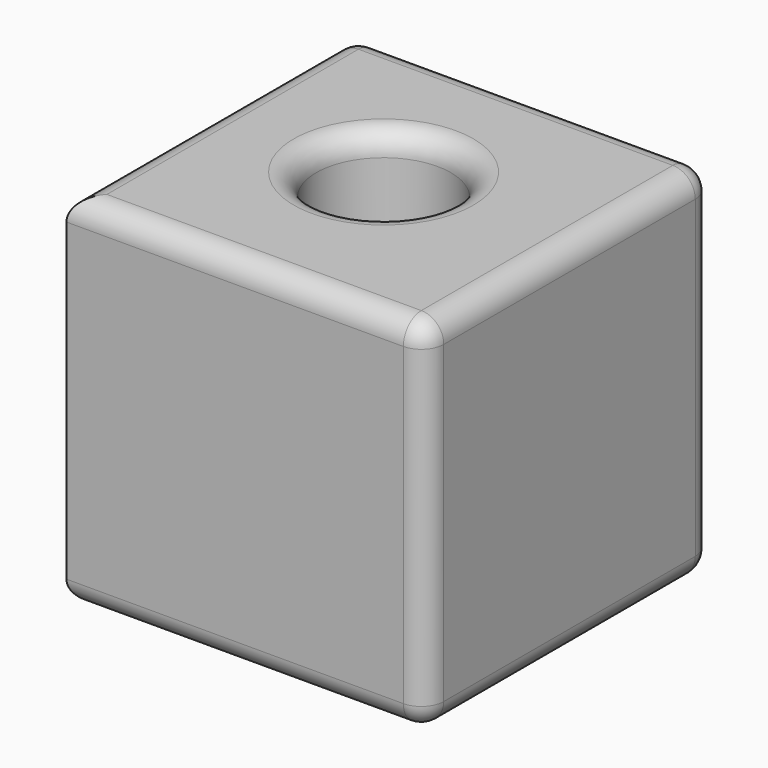
from build123d import *

# Parameters (mm, degrees)
F0_W     = 80
F0_H     = 80
F1_DEPTH = 80
F2_R     = 15
F3_DEPTH = 80.001
F4_R     = 5


with BuildPart() as f1:
    # F0 (on Top) → F1 (new body)
    with BuildSketch(Plane.XY):
        with Locations((20.5740025267, -1.6444633871)):
            Rectangle(F0_W, F0_H)
    extrude(amount=F1_DEPTH)

    # F2 (on face) → F3 (cut, through all)
    with BuildSketch(Plane.XY.offset(80)):
        with Locations((17.8592021294, 0)):
            Circle(F2_R)
    extrude(amount=-F3_DEPTH, mode=Mode.SUBTRACT)

    # F4
    f4_edges = [f1.edges().sort_by_distance(p)[0] for p in [
        (20.574003, 38.355537, 0),
        (60.574003, -1.644463, 0),
        (20.574003, -41.644463, 0),
        (-19.425997, -1.644463, 0),
        (60.574003, -1.644463, 80),
        (60.574003, -41.644463, 40),
        (60.574003, 38.355537, 40),
        (20.574003, 38.355537, 80),
        (-19.425997, -1.644463, 80),
        (20.574003, -41.644463, 80),
        (2.859202, 0, 80),
        (-19.425997, 38.355537, 40),
    ]]
    fillet(f4_edges, radius=F4_R)


solid = f1.part
